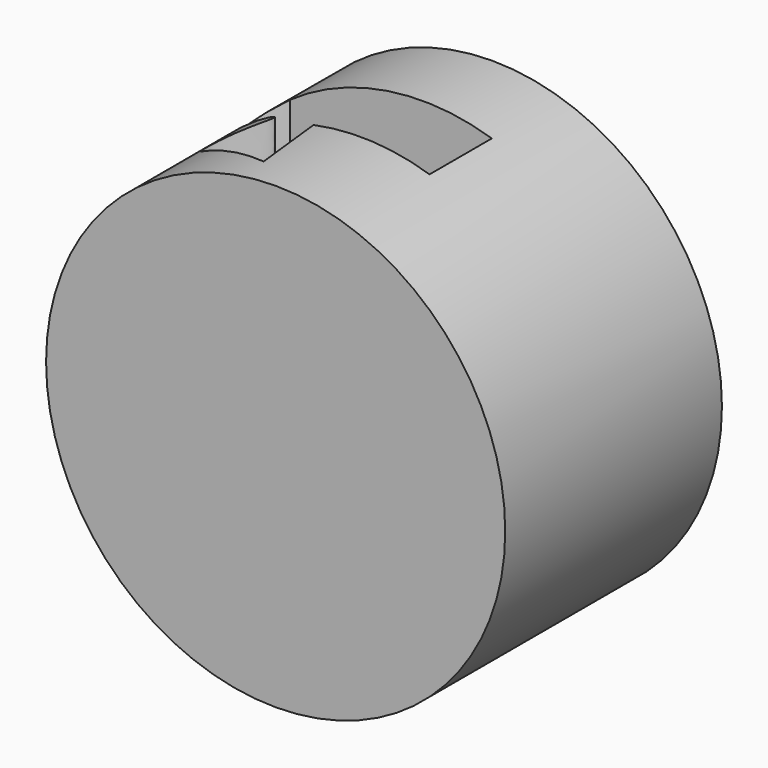
from build123d import *

# Parameters (mm, degrees)
F0_R     = 31.5027066434
F1_DEPTH = 37.1684301645
F4_DEPTH = 140.3979789466


with BuildPart() as f1:
    # F0 (on Front) → F1 (new body)
    with BuildSketch(Plane.XZ):
        Circle(F0_R)
    extrude(amount=F1_DEPTH)

    # F3 (on offset) → F4 (cut)
    with BuildSketch(Plane.XY.offset(84.0610545129)):
        with BuildLine():
            Line((9.4761028886, -11.9315292686), (-18.2410087436, -11.9315292686))
            add(Edge.make_bspline(
                [(-5.0031961873, -32.9731814563), (-12.4940646133, -30.5432269053), (-25.0192888489, -26.480178078), (-7.2338399017, -18.0056457647), (-32.6465906732, -20.5892809625), (-22.8973603016, -14.7299965076), (-18.2410087436, -11.9315292686)],
                knots=[0, 0, 0, 0, 0.2992192325, 0.500314683, 0.7613447444, 1, 1, 1, 1], degree=3))
            Line((-5.0031961873, -32.9731814563), (-6.4374888316, -22.614127025))
            Line((-6.4374888316, -22.614127025), (9.4761028886, -22.614127025))
            Line((9.4761028886, -22.614127025), (9.4761028886, -11.9315292686))
        make_face()
    extrude(amount=-F4_DEPTH, mode=Mode.SUBTRACT)


solid = f1.part
